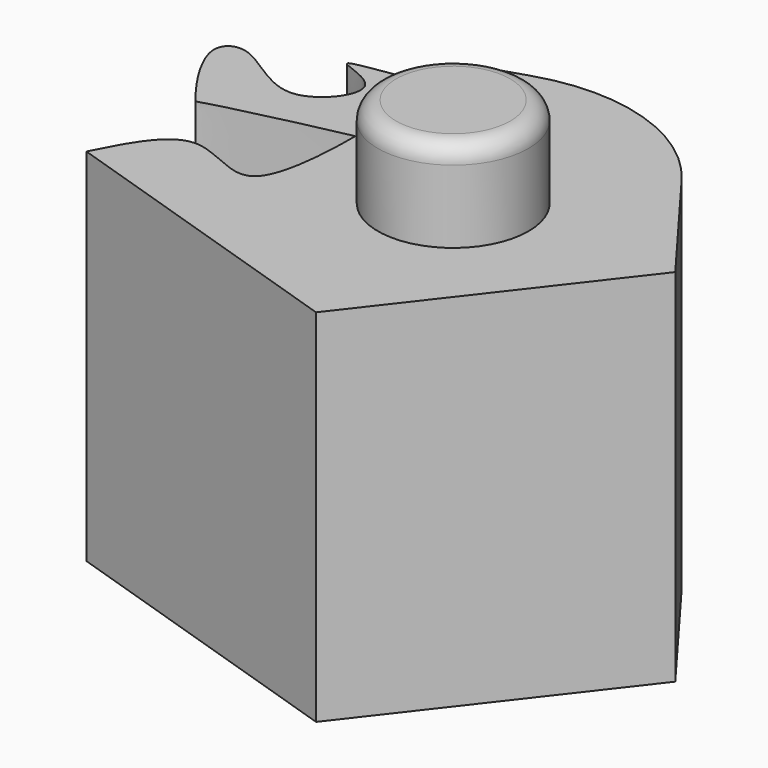
from build123d import *

# Parameters (mm, degrees)
F1_DEPTH = 100.584
F2_R     = 21.0085608042
F3_DEPTH = 25.4
F4_R     = 5.08
F5_R     = 50.8


with BuildPart() as f1:
    # F0 (on Top) → F1 (new body)
    with BuildSketch(Plane.XY):
        with BuildLine():
            Line((34.4658456727, 68.6239600163), (-10.6772145308, 54.2500510843))
            add(Edge.make_bspline(
                [(-53.5451546311, -30.7730771601), (-48.953884833, -21.7822280471), (-40.176718286, -4.5943511563), (-11.8856471754, -29.9262225858), (-12.3272648066, 11.1179305974), (-12.2891005971, 11.7412501163), (-49.6151071133, 3.1664574029), (-49.4895004493, 1.9368588394), (-66.824953635, 24.2222937801), (-54.8704732991, 31.5911485631), (-35.969237516, 10.439465383), (-18.1813140385, 33.4876669437), (-48.4219679283, 38.2331035116), (0.4590473541, 40.5496510306), (-6.1104642104, 50.4126145669), (-10.6772145308, 54.2500510843)],
                knots=[0, 0, 0, 0, 0.0927438503, 0.1772991473, 0.2779705849, 0.2904133804, 0.405639108, 0.4237617736, 0.5164002758, 0.5663648237, 0.6571226995, 0.7321370355, 0.795228255, 0.8977704598, 0.9511698363, 0.9511698363, 0.9511698363, 0.9511698363], degree=3))
            Line((-53.5451546311, -30.7730771601), (32.9271927476, -58.776576072))
            Line((32.9271927476, -58.776576072), (82.1641162038, 4.9236924388))
            Line((82.1641162038, 4.9236924388), (34.4658456727, 68.6239600163))
        make_face()
    extrude(amount=F1_DEPTH)

    # F2 (on face) → F3 (join)
    with BuildSketch(Plane.XY.offset(100.584)):
        with Locations((24.1583809257, 0)):
            Circle(F2_R)
    extrude(amount=F3_DEPTH)

    # F4
    f4_edges = [f1.edges().sort_by_distance(p)[0] for p in [
        (3.14982, 0, 125.984),
    ]]
    fillet(f4_edges, radius=F4_R)

    # F5
    f5_edges = [f1.edges().sort_by_distance(p)[0] for p in [
        (34.465846, 68.62396, 50.292),
    ]]
    fillet(f5_edges, radius=F5_R)


solid = f1.part
